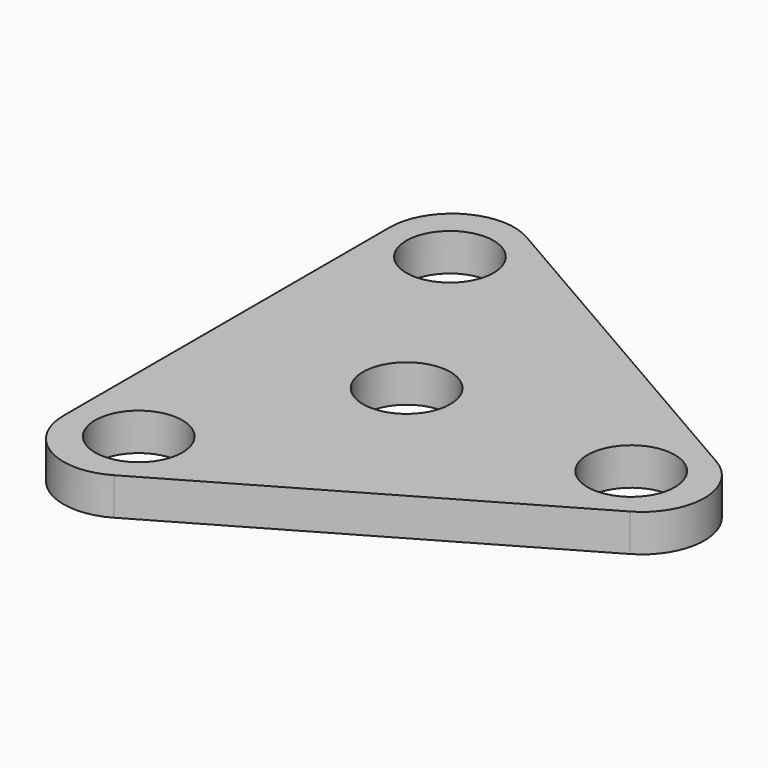
from build123d import *

# Parameters (mm, degrees)
F0_R     = 7
F1_DEPTH = 6
F2_R     = 10


with BuildPart() as f1:
    # F0 (on Top) → F1 (new body)
    with BuildSketch(Plane.XY):
        Polygon((-28.867513, 50), (-28.867513, -50), (57.735027, 0), align=None)
        with Locations((-18, -31.176915)):
            Circle(F0_R, mode=Mode.SUBTRACT)
        Circle(F0_R, mode=Mode.SUBTRACT)
        with Locations((-18, 31.176915)):
            Circle(F0_R, mode=Mode.SUBTRACT)
        with Locations((36, 0)):
            Circle(F0_R, mode=Mode.SUBTRACT)
    extrude(amount=F1_DEPTH)

    # F2
    f2_edges = [f1.edges().sort_by_distance(p)[0] for p in [
        (-28.867513, -50, 3),
        (57.735027, 0, 3),
        (-28.867513, 50, 3),
    ]]
    fillet(f2_edges, radius=F2_R)


solid = f1.part
